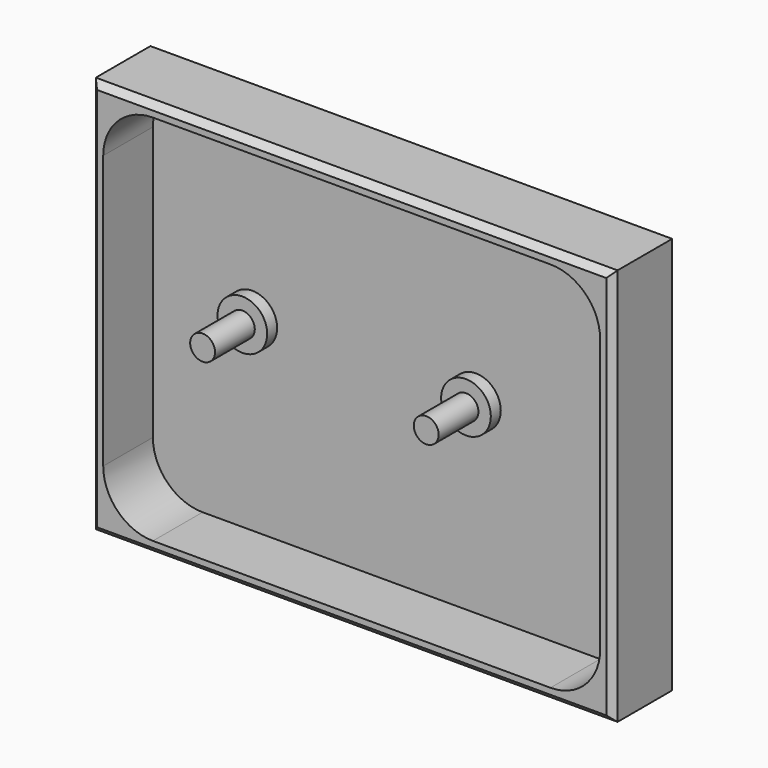
from build123d import *

# Parameters (mm, degrees)
F0_W     = 133.35
F0_H     = 101.6
F1_DEPTH = 19.05
F2_T     = -3.175
F3_R     = 6.35
F4_DEPTH = 3.175
F5_R     = 3.175
F6_DEPTH = 12.7
F7_R     = 3.175
F8_DEPTH = 12.7
F9_R     = 12.7
F10_SIZE = 1.6002


with BuildPart() as f1:
    # F0 (on Front) → F1 (new body)
    with BuildSketch(Plane.XZ):
        with Locations((-5.1130652428, 6.6948301531)):
            Rectangle(F0_W, F0_H)
    extrude(amount=F1_DEPTH)

    # F2
    f2_openings = [f1.faces().sort_by_distance(p)[0] for p in [
        (-5.113065, -19.05, 6.69483),
    ]]
    offset(amount=F2_T, openings=f2_openings)

    # F3 (on face) → F4 (join)
    with BuildSketch(Plane.XZ.offset(3.175)):
        with Locations((-43.2130652428, 6.6948301531)):
            Circle(F3_R)
        with Locations((13.9369347572, 6.6948301531)):
            Circle(F3_R)
    extrude(amount=F4_DEPTH)

    # F5 (on face) → F6 (join)
    with BuildSketch(Plane.XZ.offset(6.35)):
        with Locations((-43.2130652428, 6.6948301531)):
            Circle(F5_R)
    extrude(amount=F6_DEPTH)

    # F7 (on face) → F8 (join)
    with BuildSketch(Plane.XZ.offset(6.35)):
        with Locations((13.9369347572, 6.6948301531)):
            Circle(F7_R)
    extrude(amount=F8_DEPTH)

    # F9
    f9_edges = [f1.edges().sort_by_distance(p)[0] for p in [
        (-68.613065, -11.1125, -40.93017),
        (58.386935, -11.1125, -40.93017),
        (-68.613065, -11.1125, 54.31983),
        (58.386935, -11.1125, 54.31983),
    ]]
    fillet(f9_edges, radius=F9_R)

    # F10
    f10_edges = [f1.edges().sort_by_distance(p)[0] for p in [
        (61.561935, -19.05, 6.69483),
        (-5.113065, -19.05, -44.10517),
        (-71.788065, -19.05, 6.69483),
        (-5.113065, -19.05, 57.49483),
    ]]
    chamfer(f10_edges, length=F10_SIZE)


solid = f1.part
